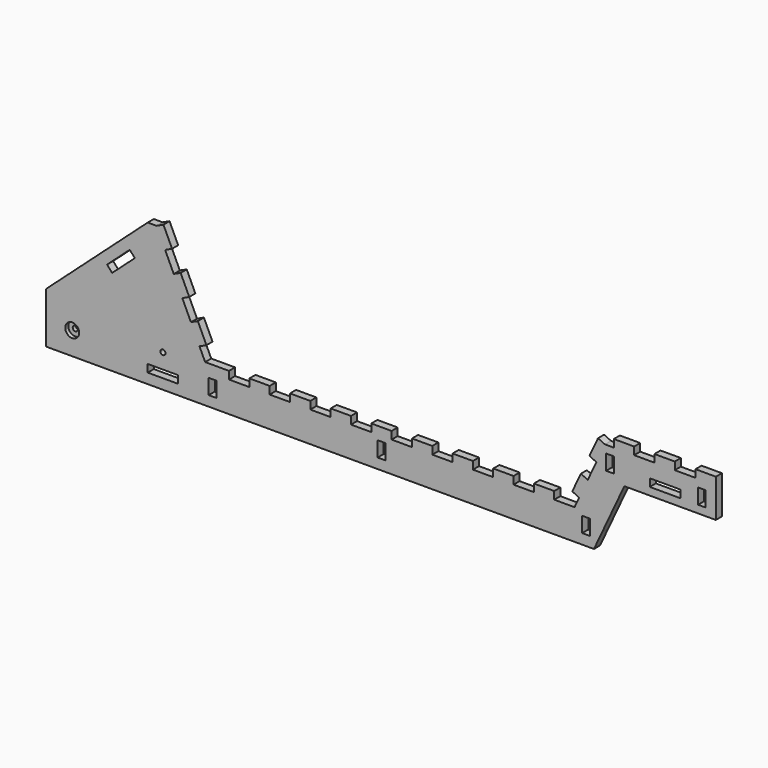
from build123d import *

# Parameters (mm, degrees)
F0_W     = 76.2
F0_H     = 19.05
F0_W_2   = 19.05
F0_H_2   = 38.1
F0_R     = 17.4625
F0_R_2   = 6.35
F1_DEPTH = 19.05
F2_DEPTH = 9.525


with BuildPart() as f1:
    # F0 (on Front) → F1 (new body)
    with BuildSketch(Plane.XZ):
        Polygon((-489.430563, 76.2), (-540.230563, 76.2), (-540.230563, 95.25), (-591.030563, 95.25), (-599.913724, 95.25), (-613.971884, 125.397822), (-596.706721, 133.4487), (-618.175729, 179.489136), (-635.440892, 171.438258), (-656.9099, 217.478693), (-639.644736, 225.529571), (-661.113744, 271.570007), (-678.378907, 263.519129), (-699.847915, 309.559564), (-682.582752, 317.610442), (-704.051759, 363.650878), (-721.316923, 355.6), (-743.430563, 355.6), (-997.430563, 127), (-997.430563, 0), (-591.030563, 0), (342.419437, 0), (371.914191, 0), (392.43009, 43.996488), (447.87154, 162.891061), (502.200551, 162.891061), (676.47154, 162.891061), (676.47154, 239.091061), (676.47154, 258.141061), (625.67154, 258.141061), (625.67154, 239.091061), (573.840427, 239.091061), (573.840427, 258.141061), (523.040427, 258.141061), (523.040427, 239.091061), (472.240427, 239.091061), (472.240427, 258.141061), (421.440427, 258.141061), (421.440427, 239.091061), (399.326786, 239.091061), (382.061623, 247.141939), (360.592615, 201.101503), (377.857779, 193.050626), (356.388771, 147.01019), (339.123608, 155.061068), (317.6546, 109.020632), (334.919763, 100.969754), (324.841751, 79.357387), (323.369437, 76.2), (272.569437, 76.2), (272.569437, 95.25), (221.769437, 95.25), (221.769437, 76.2), (170.969437, 76.2), (170.969437, 95.25), (120.169437, 95.25), (120.169437, 76.2), (69.369437, 76.2), (69.369437, 95.25), (18.569437, 95.25), (18.569437, 76.2), (-32.230563, 76.2), (-32.230563, 95.25), (-83.030563, 95.25), (-83.030563, 76.2), (-133.830563, 76.2), (-133.830563, 95.25), (-184.630563, 95.25), (-184.630563, 76.2), (-235.430563, 76.2), (-235.430563, 95.25), (-286.230563, 95.25), (-286.230563, 76.2), (-337.030563, 76.2), (-337.030563, 95.25), (-387.830563, 95.25), (-387.830563, 76.2), (-438.630563, 76.2), (-438.630563, 95.25), (-489.430563, 95.25), align=None)
        with Locations((-705.330563, 34.925)):
            Rectangle(F0_W, F0_H, mode=Mode.SUBTRACT)
        with Locations((-581.505563, 44.45)):
            Rectangle(F0_W_2, F0_H_2, mode=Mode.SUBTRACT)
        with Locations((-932.089063, 57.15)):
            Circle(F0_R, mode=Mode.SUBTRACT)
        with Locations((-705.330563, 82.55)):
            Circle(F0_R_2, mode=Mode.SUBTRACT)
        with Locations((-159.243268, 44.45)):
            Rectangle(F0_W_2, F0_H_2, mode=Mode.SUBTRACT)
        with Locations((351.944437, 44.45)):
            Rectangle(F0_W_2, F0_H_2, mode=Mode.SUBTRACT)
        Polygon((-832.288567, 215.839342), (-845.030563, 230.0007), (-788.385133, 280.968682), (-775.643137, 266.807325), align=None, mode=Mode.SUBTRACT)
        with Locations((411.915427, 200.991061)):
            Rectangle(F0_W_2, F0_H_2, mode=Mode.SUBTRACT)
        with Locations((549.47154, 191.466061)):
            Rectangle(F0_W, F0_H, mode=Mode.SUBTRACT)
        with Locations((641.54654, 200.991061)):
            Rectangle(F0_W_2, F0_H_2, mode=Mode.SUBTRACT)
    extrude(amount=F1_DEPTH)

    # F0 (on Front) → F2 (join)
    with BuildSketch(Plane.XZ):
        with Locations((-932.089063, 57.15)):
            Circle(F0_R)
        with Locations((-932.089063, 57.15)):
            Circle(F0_R_2, mode=Mode.SUBTRACT)
    extrude(amount=F2_DEPTH)


solid = f1.part
